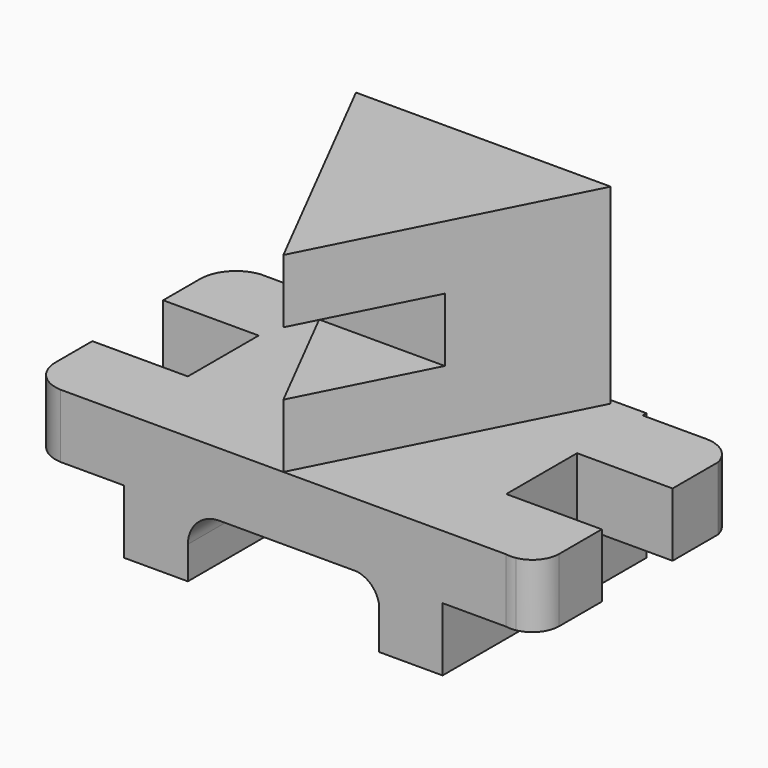
from build123d import *

# Parameters (mm, degrees)
F1_DEPTH  = 25.4
F3_DEPTH  = 25.4
F5_DEPTH  = 25.4
F6_DEPTH  = 25.4
F8_DEPTH  = 25.4
F9_DEPTH  = 25.4
F11_DEPTH = 101.6


with BuildPart() as f1:
    # F0 (on Top) → F1 (new body)
    with BuildSketch(Plane.XY):
        Polygon((50.8, 50.5276115144), (-50.8, 50.5276115144), (0, -49.1656845147), align=None)
    extrude(amount=F1_DEPTH)

    # F2 (on face) → F3 (join)
    with BuildSketch(Plane(origin=(0, 0, 0), x_dir=(1, 0, 0), z_dir=(0, 0, -1))):
        Polygon((0, 0), (-25.0530062986, 0), (-50.8, -50.5276115144), (50.8, -50.5276115144), (25.0530062986, 0), align=None)
    extrude(amount=F3_DEPTH)

    # F4 (on face) → F5 (join)
    with BuildSketch(Plane(origin=(0, 0, -25.4), x_dir=(1, 0, 0), z_dir=(0, 0, -1))):
        Polygon((25.0530062986, 0), (-25.0530062986, 0), (-50.8, -50.5276115144), (50.8, -50.5276115144), align=None)
    extrude(amount=F5_DEPTH)

    # F4 (on face) → F6 (join)
    with BuildSketch(Plane(origin=(0, 0, -25.4), x_dir=(1, 0, 0), z_dir=(0, 0, -1))):
        Polygon((0, 49.1656845147), (-25.0530062986, 0), (25.0530062986, 0), align=None)
    extrude(amount=F6_DEPTH)

    # F7 (on face) → F8 (join)
    with BuildSketch(Plane(origin=(0, 0, -50.8), x_dir=(1, 0, 0), z_dir=(0, 0, -1))):
        with BuildLine():
            ThreePointArc((92.8366021578, 49.1656845147), (90.8683010789, 49.3477316598), (88.9, 49.1656845147))
            Line((88.9, 49.1656845147), (92.8366021578, 49.1656845147))
        make_face()
        Polygon((-50.8, -50.5276115144), (0, -50.5276115144), (50.8, -50.5276115144), (0, 49.1656845147), align=None)
        with BuildLine():
            Line((0, 49.1656845147), (50.8, -50.5276115144))
            Line((50.8, -50.5276115144), (88.9, -50.5276115144))
            ThreePointArc((88.9, -50.5276115144), (96.9463521433, -47.7655661288), (101.6, -40.6440326455))
            Line((101.6, -40.6440326455), (101.6, -17.8896365181))
            Line((101.6, -17.8896365181), (63.5, -17.8896365181))
            Line((63.5, -17.8896365181), (63.5, 17.4156845147))
            Line((63.5, 17.4156845147), (101.6, 17.4156845147))
            Line((101.6, 17.4156845147), (101.6, 38.6160327387))
            ThreePointArc((101.6, 38.6160327387), (99.1233775867, 45.4733699467), (92.8366021578, 49.1656845147))
            Line((92.8366021578, 49.1656845147), (88.9, 49.1656845147))
            Line((88.9, 49.1656845147), (0, 49.1656845147))
        make_face()
    extrude(amount=F8_DEPTH)

    # F7 (on face) → F9 (join)
    with BuildSketch(Plane(origin=(0, 0, -50.8), x_dir=(1, 0, 0), z_dir=(0, 0, -1))):
        with BuildLine():
            Line((-88.9, -50.5276115144), (-50.8, -50.5276115144))
            Line((-50.8, -50.5276115144), (0, 49.1656845147))
            Line((0, 49.1656845147), (-88.9, 49.1656845147))
            ThreePointArc((-88.9, 49.1656845147), (-97.9199978671, 45.0034008683), (-101.6, 35.7761287374))
            Line((-101.6, 35.7761287374), (-101.6, 17.4156845147))
            Line((-101.6, 17.4156845147), (-63.5, 17.4156845147))
            Line((-63.5, 17.4156845147), (-63.5, -17.8896365181))
            Line((-63.5, -17.8896365181), (-101.6, -17.8896365181))
            Line((-101.6, -17.8896365181), (-101.6, -36.3230473445))
            ThreePointArc((-101.6, -36.3230473445), (-97.9620426965, -45.8501093688), (-88.9, -50.5276115144))
        make_face()
    extrude(amount=F9_DEPTH)

    # F10 (on face) → F11 (join)
    with BuildSketch(Plane.XZ.offset(49.1656845147)):
        with BuildLine():
            Line((-63.5, -50.8), (-63.5, -76.2))
            Line((-63.5, -76.2), (-63.5, -101.6))
            Line((-63.5, -101.6), (-38.1, -101.6))
            Line((-38.1, -101.6), (-38.1, -88.9))
            ThreePointArc((-38.1, -88.9), (-38.1009544934, -88.7452450805), (-38.1, -88.5904901609))
            ThreePointArc((-38.1, -88.5904901609), (-34.4176212284, -79.86523026), (-25.6851438653, -76.2))
            ThreePointArc((-25.6851438653, -76.2), (-25.5550347378, -76.1993253249), (-25.4249256104, -76.2))
            Line((-25.4249256104, -76.2), (26.2085422873, -76.2))
            ThreePointArc((26.2085422873, -76.2), (27.7959470911, -76.0795943408), (29.3833518949, -76.2))
            ThreePointArc((29.3833518949, -76.2), (35.0360054884, -78.9657015641), (38.1, -84.4623856029))
            ThreePointArc((38.1, -84.4623856029), (38.320168092, -86.6038153417), (38.1, -88.7452450805))
            Line((38.1, -88.7452450805), (38.1, -101.6))
            Line((38.1, -101.6), (63.5, -101.6))
            Line((63.5, -101.6), (63.5, -76.2))
            Line((63.5, -76.2), (63.5, -50.8))
            Line((63.5, -50.8), (-63.5, -50.8))
        make_face()
        with BuildLine():
            ThreePointArc((-38.1, -88.5904901609), (-38.1009544934, -88.7452450805), (-38.1, -88.9))
            Line((-38.1, -88.9), (-38.1, -88.5904901609))
        make_face()
        with BuildLine():
            ThreePointArc((-25.4249256104, -76.2), (-25.5550347378, -76.1993253249), (-25.6851438653, -76.2))
            Line((-25.6851438653, -76.2), (-25.4249256104, -76.2))
        make_face()
        with BuildLine():
            Line((38.1, -84.4623856029), (38.1, -88.7452450805))
            ThreePointArc((38.1, -88.7452450805), (38.320168092, -86.6038153417), (38.1, -84.4623856029))
        make_face()
        with BuildLine():
            ThreePointArc((29.3833518949, -76.2), (27.7959470911, -76.0795943408), (26.2085422873, -76.2))
            Line((26.2085422873, -76.2), (29.3833518949, -76.2))
        make_face()
    extrude(amount=-F11_DEPTH)


solid = f1.part
